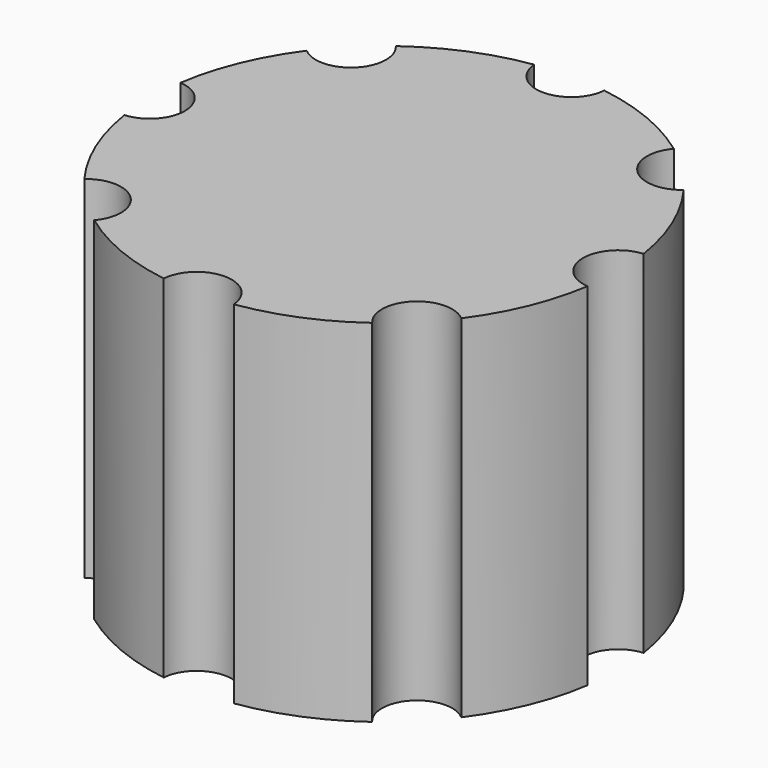
from build123d import *

# Parameters (mm, degrees)
CYLINDER001_R     = 1.5
CYLINDER001_DEPTH = 20
ARRAY_COUNT       = 8
CYLINDER_R        = 10
CYLINDER_DEPTH    = 15


with BuildPart() as array:
    # Cylinder001 → Cylinder001 (new body)
    with BuildSketch(Plane(origin=(10, 0, 0), x_dir=(1, 0, 0), z_dir=(0, 0, 1))):
        Circle(CYLINDER001_R)
    extrude(amount=CYLINDER001_DEPTH)

    # Array: Array ×8 about axis
    array_axis = Axis((0, 0, 0), (0, 0, 1))


with BuildPart() as array_1:
    add(array.part)
    for i in range(1, ARRAY_COUNT):
        add(array.part.rotate(array_axis, i * 360 / ARRAY_COUNT))


with BuildPart() as cut:
    # Cylinder → Cylinder (new body)
    with BuildSketch(Plane.XY):
        Circle(CYLINDER_R)
    extrude(amount=CYLINDER_DEPTH)

    # Cut: cut Array
    add(array_1.part, mode=Mode.SUBTRACT)


solid = cut.part
